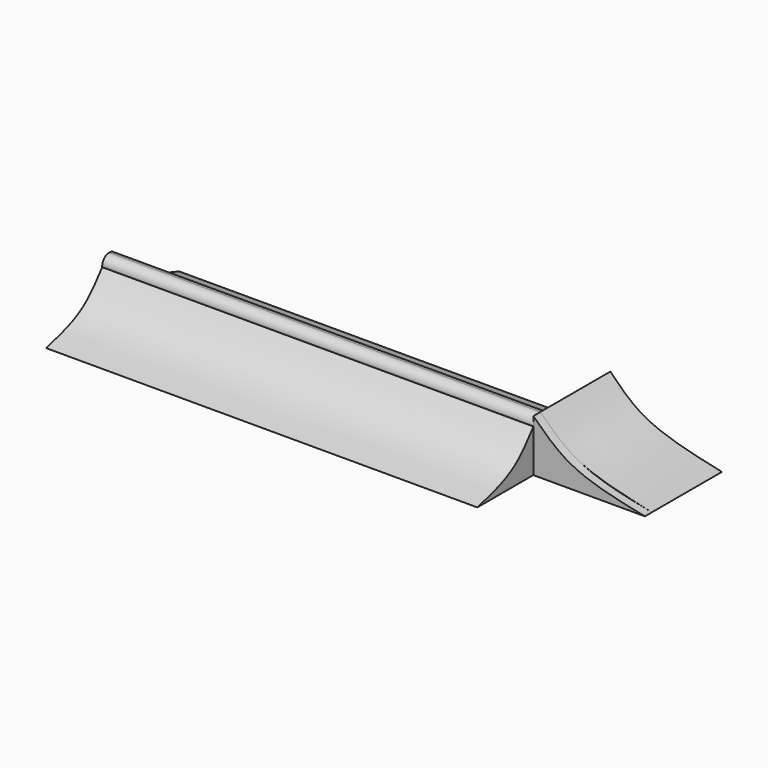
from build123d import *

# Parameters (mm, degrees)
F1_DEPTH = 287.6463532448
F3_DEPTH = 1416.9713258743
F4_R     = 27.94
F6_DEPTH = 28.6714229733


with BuildPart() as f1:
    # F0 (on Front) → F1 (new body)
    with BuildSketch(Plane.XZ):
        with BuildLine():
            Line((586.0098600388, -170.8933115005), (952.6613950729, -170.8933115005))
            add(Edge.make_bspline(
                [(586.0098600388, 0), (620.4589978435, -35.1400250661), (699.6360054649, -115.9049409737), (861.3228837136, -151.043304619), (952.6613950729, -170.8933115005)],
                knots=[0, 0, 0, 0, 0.4350901742, 1, 1, 1, 1], degree=3))
            Line((586.0098600388, 0), (586.0098600388, -170.8933115005))
        make_face()
    extrude(amount=-F1_DEPTH)

    # F2 (on face) → F3 (join)
    with BuildSketch(Plane(origin=(586.0098600388, 0, 0), x_dir=(0, -1, 0), z_dir=(-1, 0, 0))):
        with BuildLine():
            Line((-287.6463532448, -170.8933115005), (0, -170.8933115005))
            Line((0, -170.8933115005), (258.4099173546, -170.8933115005))
            add(Edge.make_bspline(
                [(27.9546976089, -30.5913537741), (53.6556852067, -63.1414344295), (107.897795811, -131.8386094304), (206.5179496748, -157.4284439302), (258.4099173546, -170.8933115005)],
                knots=[0, 0, 0, 0, 0.4738197545, 1, 1, 1, 1], degree=3))
            Line((27.9546976089, -30.5913537741), (27.9546976089, 0))
            Line((27.9546976089, 0), (-29.7771990299, 0))
            Line((-29.7771990299, 0), (-29.7771990299, -30.5913537741))
            add(Edge.make_bspline(
                [(-287.6463532448, -170.8933115005), (-239.9758235568, -156.4023167375), (-144.5368623868, -127.3905600389), (-68.0565740127, -62.8798215261), (-29.7771990299, -30.5913537741)],
                knots=[0, 0, 0, 0, 0.499487118, 1, 1, 1, 1], degree=3))
        make_face()
    extrude(amount=F3_DEPTH)

    # F4
    f4_edges = [f1.edges().sort_by_distance(p)[0] for p in [
        (-122.475803, -27.954698, 0),
        (-122.475803, 29.777199, 0),
    ]]
    fillet(f4_edges, radius=F4_R)

    # F5 (on face) → F6 (join)
    with BuildSketch(Plane.XZ):
        with BuildLine():
            Line((586.0098600388, -170.8933115005), (952.6613950729, -170.8933115005))
            add(Edge.make_bspline(
                [(586.0098600388, 0), (624.4093625475, -37.2079323351), (709.3130934728, -121.0024943877), (866.4472155814, -152.8188445982), (952.6613950729, -170.8933115005)],
                knots=[0, 0, 0, 0, 0.449468387, 1, 1, 1, 1], degree=3))
            Line((586.0098600388, 0), (586.0098600388, -170.8933115005))
        make_face()
    extrude(amount=F6_DEPTH)


solid = f1.part
